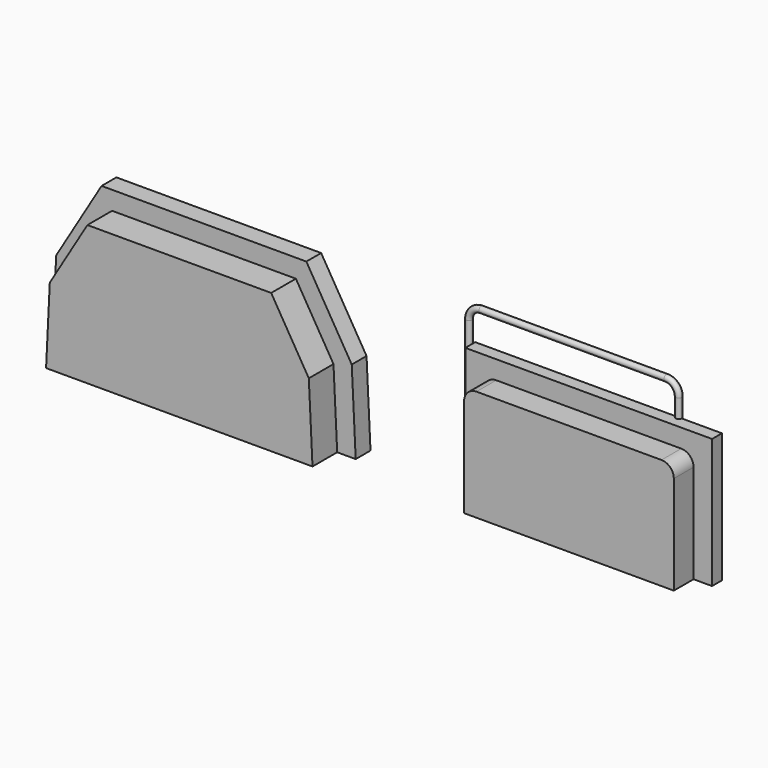
from build123d import *

# Parameters (mm, degrees)
F1_DEPTH = 101.6
F2_DEPTH = 38.1
F3_DEPTH = 25.4
F4_DEPTH = 76.2
F6_R     = 6.35


with BuildPart() as f1:
    # F0 (on Front) → F1 (new body)
    with BuildSketch(Plane.XZ):
        Polygon((-266.7, 157.48), (-274.32, 0), (0, 0), (274.32, 0), (266.7, 157.48), (189.23, 287.02), (-189.23, 287.02), align=None)
    extrude(amount=F1_DEPTH)

    # F0 (on Front) → F2 (join)
    with BuildSketch(Plane.XZ):
        Polygon((-312.4645759008, 0), (-274.32, 0), (-266.7, 157.48), (-189.23, 287.02), (189.23, 287.02), (266.7, 157.48), (274.32, 0), (312.4645759008, 0), (304.2944724208, 168.8488052545), (210.8381696808, 325.12), (-210.8381696808, 325.12), (-304.2944724208, 168.8488052545), align=None)
    extrude(amount=F2_DEPTH)


with BuildPart() as f3:
    # F0 (on Front) → F3 (new body)
    with BuildSketch(Plane.XZ):
        with BuildLine():
            Line((528.1105759008, 0), (566.2105759008, 0))
            Line((566.2105759008, 0), (566.2105759008, 203.2))
            ThreePointArc((566.2105759008, 203.2), (573.6500636587, 221.1605122421), (591.6105759008, 228.6))
            Line((591.6105759008, 228.6), (972.6105759008, 228.6))
            ThreePointArc((972.6105759008, 228.6), (990.571088143, 221.1605122421), (998.0105759008, 203.2))
            Line((998.0105759008, 203.2), (998.0105759008, 0))
            Line((998.0105759008, 0), (1036.1105759008, 0))
            Line((1036.1105759008, 0), (1036.1105759008, 266.7))
            Line((1036.1105759008, 266.7), (528.1105759008, 266.7))
            Line((528.1105759008, 266.7), (528.1105759008, 0))
        make_face()
    extrude(amount=F3_DEPTH)

    # F0 (on Front) → F4 (join)
    with BuildSketch(Plane.XZ):
        with BuildLine():
            Line((566.2105759008, 203.2), (566.2105759008, 0))
            Line((566.2105759008, 0), (998.0105759008, 0))
            Line((998.0105759008, 0), (998.0105759008, 203.2))
            ThreePointArc((998.0105759008, 203.2), (990.571088143, 221.1605122421), (972.6105759008, 228.6))
            Line((972.6105759008, 228.6), (591.6105759008, 228.6))
            ThreePointArc((591.6105759008, 228.6), (573.6500636587, 221.1605122421), (566.2105759008, 203.2))
        make_face()
    extrude(amount=F4_DEPTH)


with BuildPart() as f7:
    # F7: sweep along a path in F5
    with BuildLine(Plane(origin=(0, 0, 0), x_dir=(-1, 0, 0), z_dir=(0, 1, 0))) as f7_path:
        Line((-515.4105759008, 0), (-515.4105759008, 101.6))
        Line((-515.4105759008, 101.6), (-515.4105759008, 304.8))
        ThreePointArc((-515.4105759008, 304.8), (-522.8500636587, 322.7605122421), (-540.8105759008, 330.2))
        Line((-540.8105759008, 330.2), (-921.8105759008, 330.2))
        ThreePointArc((-921.8105759008, 330.2), (-939.771088143, 322.7605122421), (-947.2105759008, 304.8))
        Line((-947.2105759008, 304.8), (-947.2105759008, 101.6))
        Line((-947.2105759008, 101.6), (-947.2105759008, 0))
    # F6 (on Top) → F7 (sweep)
    with BuildSketch(Plane.XY):
        with Locations((515.4105759008, 0)):
            Circle(F6_R)
    sweep(path=f7_path.line)


solid = Compound([f1.part, f3.part, f7.part])
